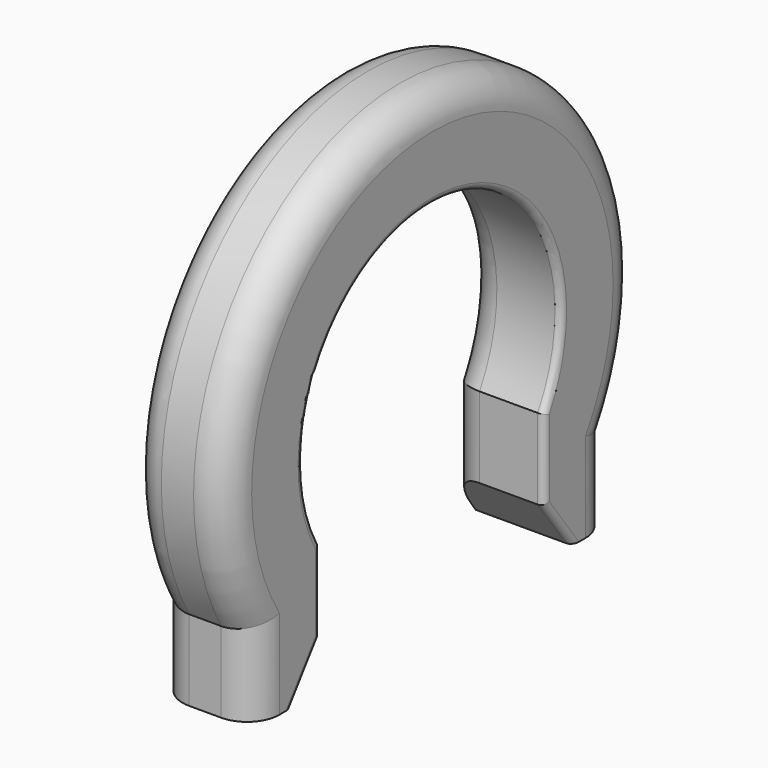
from build123d import *

# Parameters (mm, degrees)
PAD_DEPTH   = 3
FILLET_R    = 1
FILLET001_R = 0.2
FILLET002_R = 1


with BuildPart() as part:
    # Sketch → Pad (new body)
    with BuildSketch(Plane.YZ):
        with BuildLine():
            ThreePointArc((4.330127, -2.5), (0, 5), (-4.330127, -2.5))
            Line((-4.330127, -2.5), (-4.330127, -5))
            Line((-4.330127, -5), (-5.428204, -6.499999))
            Line((-6.928204, -6.499999), (-5.428204, -6.499999))
            Line((-6.928204, -3.999999), (-6.928204, -6.499999))
            ThreePointArc((6.928204, -3.999999), (0, 8), (-6.928204, -3.999999))
            Line((6.928204, -3.999999), (6.928204, -6.499999))
            Line((6.928204, -6.499999), (5.428204, -6.499999))
            Line((4.330127, -5), (5.428204, -6.499999))
            Line((4.330127, -2.5), (4.330127, -5))
        make_face()
    extrude(amount=PAD_DEPTH)

    # Fillet
    fillet_edges = [part.edges().sort_by_distance(p)[0] for p in [
        (3, -6.928204, -5.249999),
        (3, 0, 8),
        (3, 6.928204, -5.249999),
    ]]
    fillet(fillet_edges, radius=FILLET_R)

    # Fillet001
    fillet001_edges = [part.edges().sort_by_distance(p)[0] for p in [
        (3, 0, 5),
        (3, -4.330127, -3.75),
        (3, -4.879165, -5.749999),
        (3, 4.330127, -3.75),
        (3, 4.879165, -5.749999),
    ]]
    fillet(fillet001_edges, radius=FILLET001_R)

    # Fillet002
    fillet002_edges = [part.edges().sort_by_distance(p)[0] for p in [
        (0, 0, 8),
        (0, 6.928204, -5.249999),
        (0, 4.330127, -3.75),
        (0, 0, 5),
        (0, -4.330127, -3.75),
        (0, -6.928204, -5.249999),
    ]]
    fillet(fillet002_edges, radius=FILLET002_R)


solid = part.part
